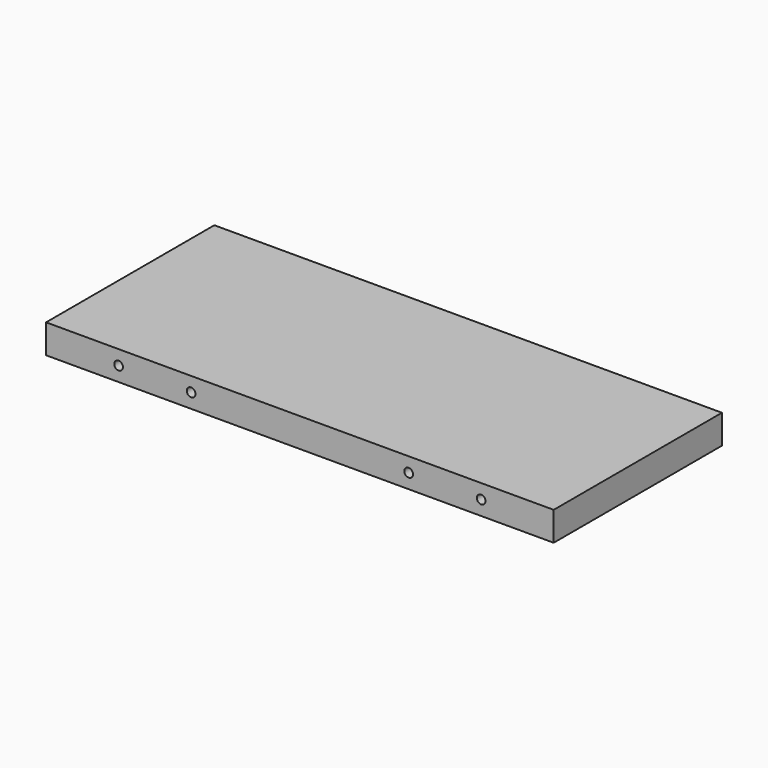
from build123d import *

# Parameters (mm, degrees)
F0_W     = 350
F0_H     = 145
F1_DEPTH = 10
F3_D     = 6


with BuildPart() as f1:
    # F0 (on Top) → F1 (new body, symmetric)
    with BuildSketch(Plane.XY):
        Rectangle(F0_W, F0_H)
    extrude(amount=F1_DEPTH, both=True)

    # F3 (through all)
    with Locations(Plane.XZ.offset(72.5)):
        with Locations((-125, 0), (-75, 0), (75, 0), (125, 0)):
            Hole(F3_D / 2)


solid = f1.part
